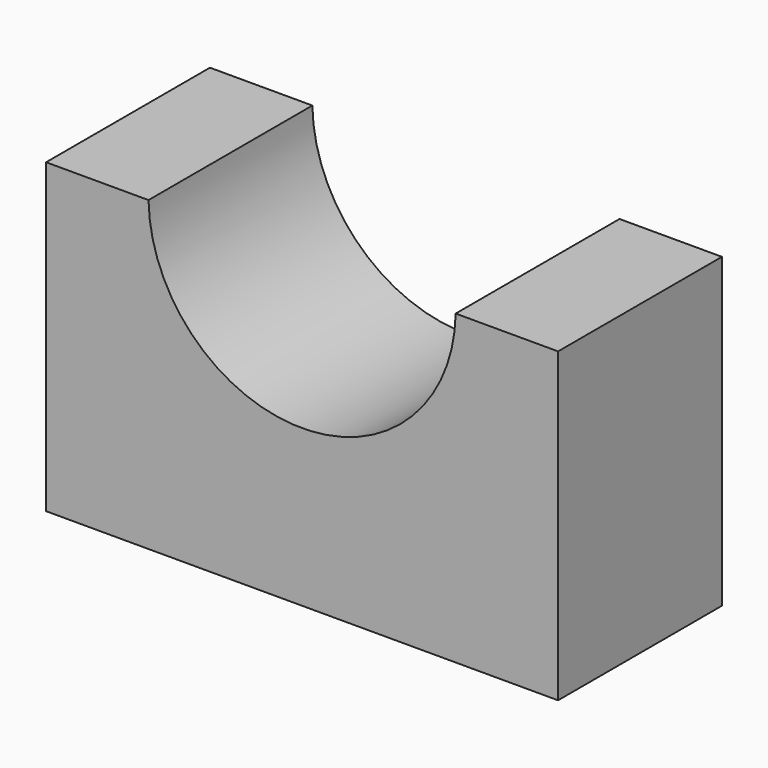
from build123d import *

# Parameters (mm, degrees)
F0_W     = 63.5
F0_H     = 38.1
F2_DEPTH = 25.4
F3_DEPTH = 25.4


with BuildPart() as f2:
    # F0 (on Front) → F2 (new body)
    with BuildSketch(Plane.XZ):
        with Locations((31.75, 19.05)):
            Rectangle(F0_W, F0_H)
    extrude(amount=F2_DEPTH)

    # F1 (on face) → F3 (cut)
    with BuildSketch(Plane.XZ):
        with BuildLine():
            Line((50.7974317948, 38.1), (12.7025682052, 38.1))
            ThreePointArc((12.7025682052, 38.1), (31.75, 19.3920074346), (50.7974317948, 38.1))
        make_face()
    extrude(amount=F3_DEPTH, mode=Mode.SUBTRACT)


solid = f2.part
